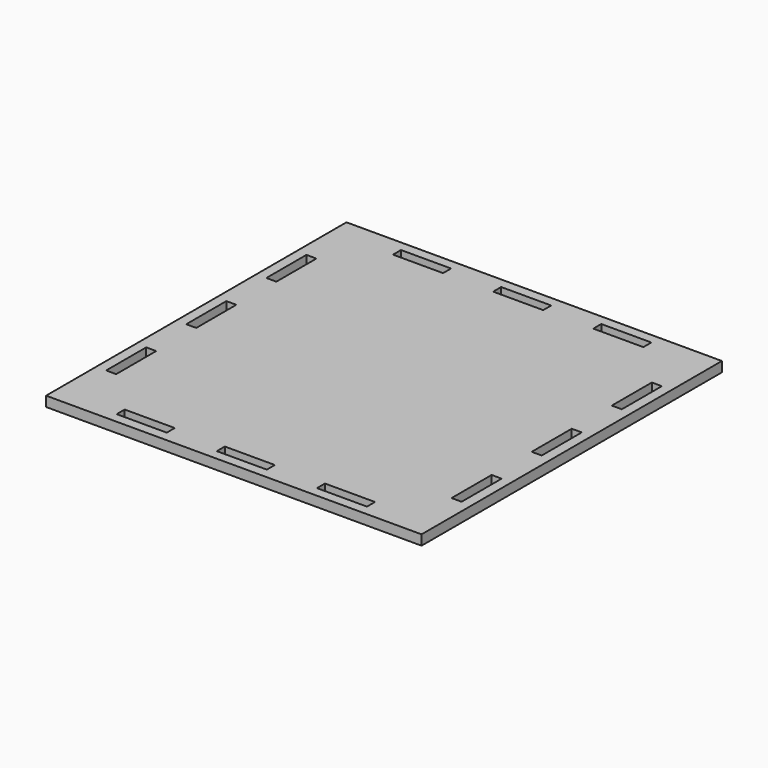
from build123d import *

# Parameters (mm, degrees)
F0_W     = 150
F0_H     = 150
F1_DEPTH = 4


with BuildPart() as f1:
    # F0 (on Top) → F1 (new body)
    with BuildSketch(Plane.XY):
        Rectangle(F0_W, F0_H)
        Polygon((-30, -71), (-40, -71), (-50, -71), (-50, -67), (-40, -67), (-30, -67), align=None, mode=Mode.SUBTRACT)
        Polygon((-71, -30), (-67, -30), (-67, -50), (-71, -50), (-71, -40), align=None, mode=Mode.SUBTRACT)
        Polygon((-10, -71), (-10, -67), (0, -67), (10, -67), (10, -71), (0, -71), align=None, mode=Mode.SUBTRACT)
        Polygon((50, -71), (40, -71), (30, -71), (30, -67), (40, -67), (50, -67), align=None, mode=Mode.SUBTRACT)
        Polygon((71, -50), (67, -50), (67, -30), (71, -30), (71, -40), align=None, mode=Mode.SUBTRACT)
        Polygon((-71, -10), (-71, 0), (-71, 10), (-67, 10), (-67, 0), (-67, -10), align=None, mode=Mode.SUBTRACT)
        Polygon((-71, 50), (-67, 50), (-67, 30), (-71, 30), (-71, 40), align=None, mode=Mode.SUBTRACT)
        Polygon((-30, 71), (-30, 67), (-40, 67), (-50, 67), (-50, 71), (-40, 71), align=None, mode=Mode.SUBTRACT)
        Polygon((71, 0), (71, -10), (67, -10), (67, 10), (71, 10), align=None, mode=Mode.SUBTRACT)
        Polygon((-10, 71), (0, 71), (10, 71), (10, 67), (0, 67), (-10, 67), align=None, mode=Mode.SUBTRACT)
        Polygon((71, 30), (67, 30), (67, 50), (71, 50), (71, 40), align=None, mode=Mode.SUBTRACT)
        Polygon((30, 71), (40, 71), (50, 71), (50, 67), (40, 67), (30, 67), align=None, mode=Mode.SUBTRACT)
    extrude(amount=F1_DEPTH)


solid = f1.part
